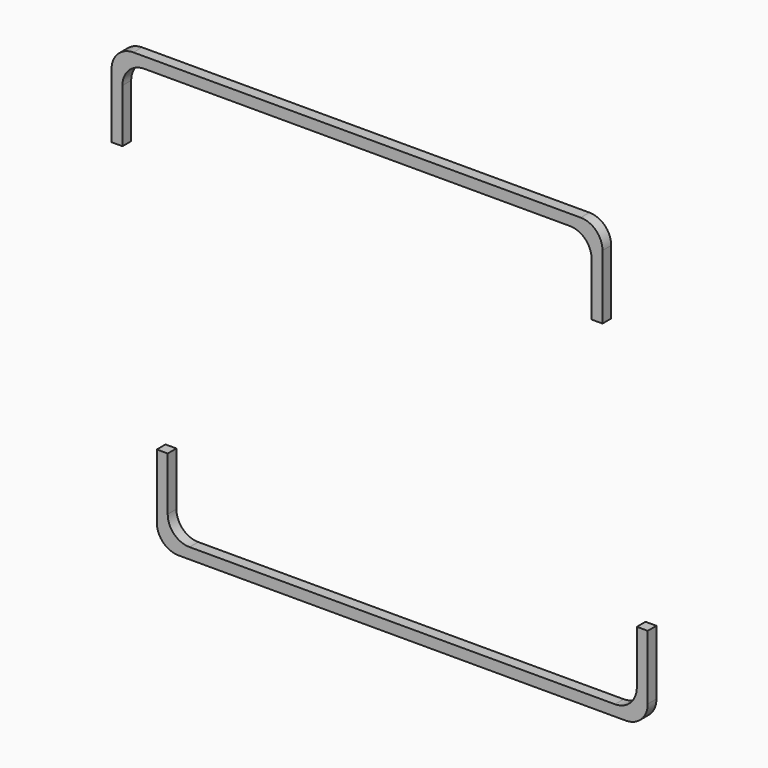
from build123d import *

# Parameters (mm, degrees)
F0_W     = 2.54
F0_H     = 17.526
F1_DEPTH = 2.54
F2_R     = 5.08


with BuildPart() as f1:
    # F0 (on Front) → F1 (new body)
    with BuildSketch(Plane.XZ):
        Polygon((-59.362726, 60.144404), (-59.362726, 57.604404), (-56.822726, 57.604404), (52.397274, 57.604404), (54.937274, 57.604404), (54.937274, 60.144404), align=None)
        with Locations((-58.092726, 48.841404)):
            Rectangle(F0_W, F0_H)
        with Locations((53.667274, 48.841404)):
            Rectangle(F0_W, F0_H)
        with Locations((-47.555447, -28.230649)):
            Rectangle(F0_W, F0_H)
        Polygon((-46.285447, -36.993649), (-48.825447, -36.993649), (-48.825447, -39.533649), (65.474553, -39.533649), (65.474553, -36.993649), (62.934553, -36.993649), align=None)
        with Locations((64.204553, -28.230649)):
            Rectangle(F0_W, F0_H)
    extrude(amount=F1_DEPTH)

    # F2
    f2_edges = [f1.edges().sort_by_distance(p)[0] for p in [
        (-46.285447, -1.27, -36.993649),
        (-48.825447, -1.27, -39.533649),
        (62.934553, -1.27, -36.993649),
        (65.474553, -1.27, -39.533649),
        (52.397274, -1.27, 57.604404),
        (54.937274, -1.27, 60.144404),
        (-56.822726, -1.27, 57.604404),
        (-59.362726, -1.27, 60.144404),
    ]]
    fillet(f2_edges, radius=F2_R)


solid = f1.part
